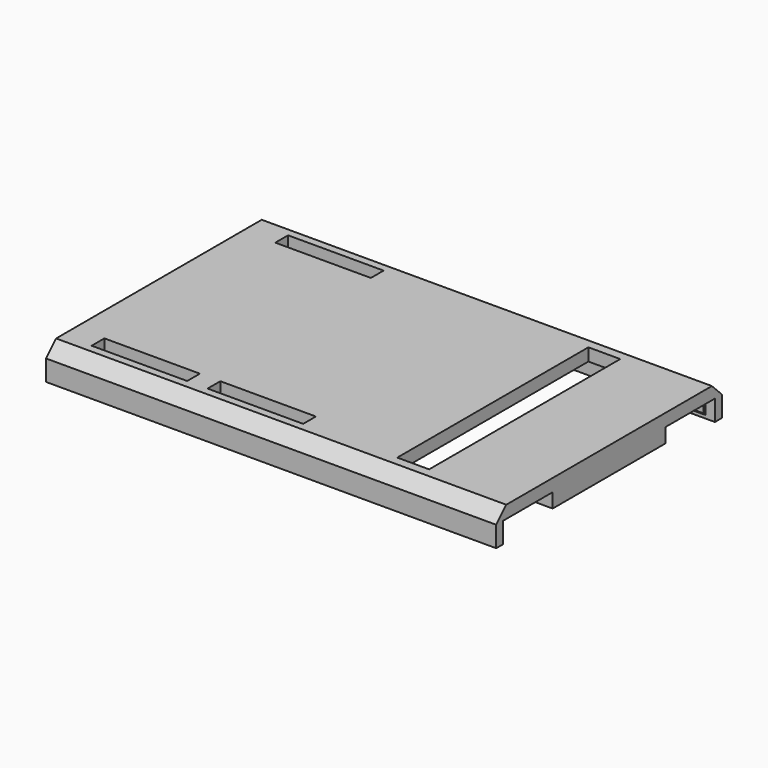
from build123d import *

# Parameters (mm, degrees)
SKETCH005_W     = 71.8
SKETCH005_H     = 45
SKETCH005_W_2   = 15.24
SKETCH005_H_2   = 2.54
SKETCH005_W_3   = 5.08
SKETCH005_H_3   = 38.1
PAD003_DEPTH    = 2
SKETCH006_W     = 71.8
SKETCH006_H     = 1.4
PAD004_DEPTH    = 3.3
SKETCH007_W     = 7
SKETCH007_H     = 22.5
PAD005_DEPTH    = 2.3
SKETCH010_W     = 5
SKETCH010_H     = 2.3
PAD006_DEPTH    = 0.4
SKETCH011_W     = 5
SKETCH011_H     = 2.3
PAD007_DEPTH    = 0.4
CHAMFER_SIZE    = 0.399
CHAMFER001_SIZE = 2


with BuildPart() as part:
    # Sketch005 → Pad003 (new body)
    with BuildSketch(Plane.XY.offset(4.3)):
        with Locations((-31.9, 0)):
            Rectangle(SKETCH005_W, SKETCH005_H)
        with Locations((-55, 18)):
            Rectangle(SKETCH005_W_2, SKETCH005_H_2, mode=Mode.SUBTRACT)
        with Locations((-55.5, -18)):
            Rectangle(SKETCH005_W_2, SKETCH005_H_2, mode=Mode.SUBTRACT)
        with Locations((-37, -18)):
            Rectangle(SKETCH005_W_2, SKETCH005_H_2, mode=Mode.SUBTRACT)
        with Locations((-12, 0)):
            Rectangle(SKETCH005_W_3, SKETCH005_H_3, mode=Mode.SUBTRACT)
    extrude(amount=PAD003_DEPTH)

    # Sketch006 (on Face21 of Pad003) → Pad004 (join)
    with BuildSketch(Plane(origin=(0, 0, 4.3), x_dir=(1, 0, 0), z_dir=(0, 0, -1))):
        with Locations((-31.9, 21.8)):
            Rectangle(SKETCH006_W, SKETCH006_H)
        with Locations((-31.9, -21.8)):
            Rectangle(SKETCH006_W, SKETCH006_H)
    extrude(amount=PAD004_DEPTH)

    # Sketch007 (on Face5 of Pad004) → Pad005 (join)
    with BuildSketch(Plane(origin=(0, 0, 4.3), x_dir=(1, 0, 0), z_dir=(0, 0, -1))):
        with Locations((0.5, 0)):
            Rectangle(SKETCH007_W, SKETCH007_H)
    extrude(amount=PAD005_DEPTH)

    # Sketch010 (on Face11 of Pad005) → Pad006 (join)
    with BuildSketch(Plane.XZ.offset(-21.1)):
        with Locations((0, 2.65)):
            Rectangle(SKETCH010_W, SKETCH010_H)
        with Locations((-63.8, 2.65)):
            Rectangle(SKETCH010_W, SKETCH010_H)
    extrude(amount=PAD006_DEPTH)

    # Sketch011 (on Face16 of Pad006) → Pad007 (join)
    with BuildSketch(Plane(origin=(0, -21.1, 0), x_dir=(-1, 0, 0), z_dir=(0, 1, 0))):
        with Locations((0, 2.65)):
            Rectangle(SKETCH011_W, SKETCH011_H)
        with Locations((63.8, 2.65)):
            Rectangle(SKETCH011_W, SKETCH011_H)
    extrude(amount=PAD007_DEPTH)

    # Chamfer
    chamfer_edges = [part.edges().sort_by_distance(p)[0] for p in [
        (-63.8, -20.7, 1.5),
        (0, -20.7, 1.5),
        (-63.8, 20.7, 1.5),
        (0, 20.7, 1.5),
    ]]
    chamfer(chamfer_edges, length=CHAMFER_SIZE)

    # Chamfer001
    chamfer001_edges = [part.edges().sort_by_distance(p)[0] for p in [
        (-31.9, 22.5, 6.3),
        (-31.9, -22.5, 6.3),
    ]]
    chamfer(chamfer001_edges, length=CHAMFER001_SIZE)


solid = part.part
